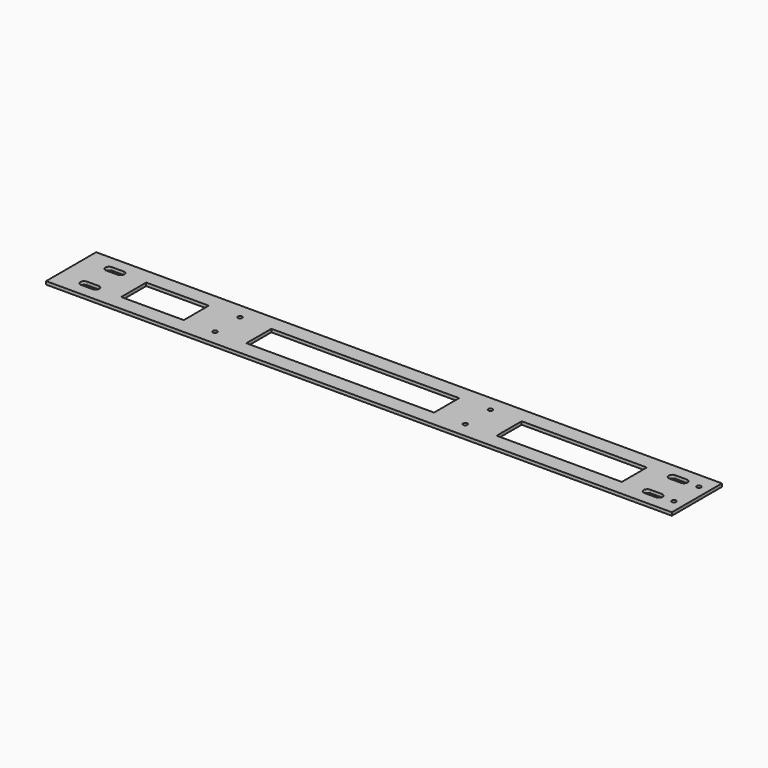
from build123d import *

# Parameters (mm, degrees)
F0_W     = 600
F0_H     = 60
F0_R     = 2.05
F0_W_2   = 60
F0_H_2   = 30
F0_W_3   = 180
F0_W_4   = 120
F1_DEPTH = 3


with BuildPart() as f1:
    # F0 (on Top) → F1 (new body)
    with BuildSketch(Plane.XY):
        Rectangle(F0_W, F0_H)
        with BuildLine():
            ThreePointArc((-264.5, -11.5), (-261, -15), (-264.5, -18.5))
            Line((-264.5, -18.5), (-275.5, -18.5))
            ThreePointArc((-275.5, -18.5), (-279, -15), (-275.5, -11.5))
            Line((-275.5, -11.5), (-264.5, -11.5))
        make_face(mode=Mode.SUBTRACT)
        with Locations((-150, -15)):
            Circle(F0_R, mode=Mode.SUBTRACT)
        with Locations((90, -15)):
            Circle(F0_R, mode=Mode.SUBTRACT)
        with BuildLine():
            ThreePointArc((275.5, -11.5), (279, -15), (275.5, -18.5))
            Line((275.5, -18.5), (264.5, -18.5))
            ThreePointArc((264.5, -18.5), (261, -15), (264.5, -11.5))
            Line((264.5, -11.5), (275.5, -11.5))
        make_face(mode=Mode.SUBTRACT)
        with Locations((290, -15)):
            Circle(F0_R, mode=Mode.SUBTRACT)
        with Locations((-210, 0)):
            Rectangle(F0_W_2, F0_H_2, mode=Mode.SUBTRACT)
        with Locations((-30, 0)):
            Rectangle(F0_W_3, F0_H_2, mode=Mode.SUBTRACT)
        with BuildLine():
            ThreePointArc((-264.5, 18.5), (-261, 15), (-264.5, 11.5))
            Line((-264.5, 11.5), (-275.5, 11.5))
            ThreePointArc((-275.5, 11.5), (-279, 15), (-275.5, 18.5))
            Line((-275.5, 18.5), (-264.5, 18.5))
        make_face(mode=Mode.SUBTRACT)
        with Locations((-150, 15)):
            Circle(F0_R, mode=Mode.SUBTRACT)
        with Locations((180, 0)):
            Rectangle(F0_W_4, F0_H_2, mode=Mode.SUBTRACT)
        with Locations((90, 15)):
            Circle(F0_R, mode=Mode.SUBTRACT)
        with BuildLine():
            ThreePointArc((275.5, 18.5), (279, 15), (275.5, 11.5))
            Line((275.5, 11.5), (264.5, 11.5))
            ThreePointArc((264.5, 11.5), (261, 15), (264.5, 18.5))
            Line((264.5, 18.5), (275.5, 18.5))
        make_face(mode=Mode.SUBTRACT)
        with Locations((290, 15)):
            Circle(F0_R, mode=Mode.SUBTRACT)
    extrude(amount=F1_DEPTH)


solid = f1.part
